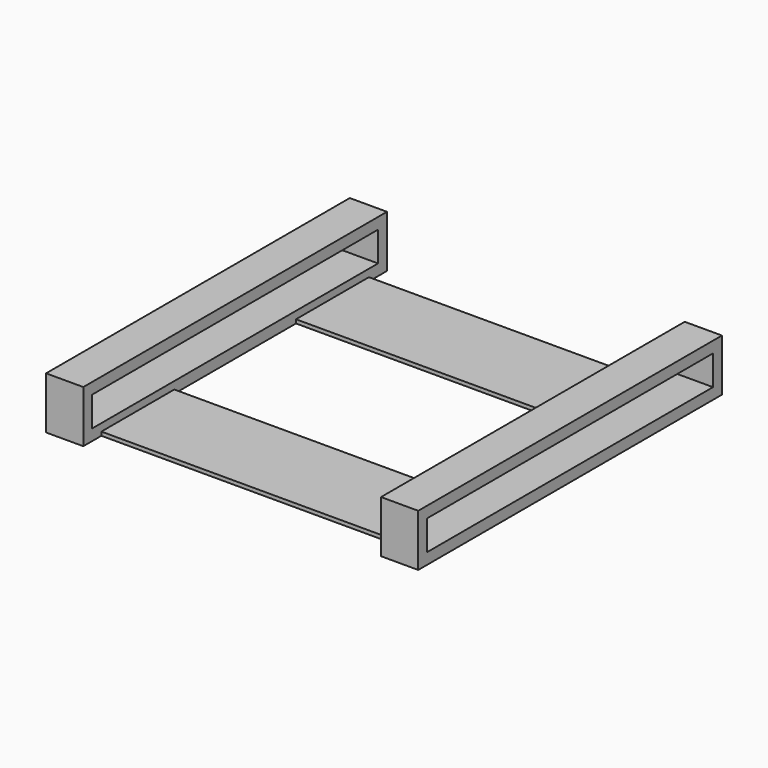
from build123d import *

# Parameters (mm, degrees)
F1_START      = 20
F0_W          = 48
F0_H          = 4
F0_W_2        = 12.2445234573
F0_H_2        = 0.5
F1_DEPTH      = 5
F2_START      = -20
F2_DEPTH      = 5
F3_DEPTH      = 25
F3_DEPTH_BACK = 25


with BuildPart() as f1:
    # F0 (on Right) → F1 (new body)
    with BuildSketch(Plane.YZ.offset(F1_START)):
        Polygon((-25.5, 7), (-25.5, 0), (-22.4627573043, 0), (-22.4627573043, 0.5), (-10.218233847, 0.5), (-10.218233847, 0), (10.218233847, 0), (10.218233847, 0.5), (22.4627573043, 0.5), (22.4627573043, 0), (25.5, 0), (25.5, 7), align=None)
        with Locations((0, 3.5)):
            Rectangle(F0_W, F0_H, mode=Mode.SUBTRACT)
        with Locations((-16.3404955757, 0.25)):
            Rectangle(F0_W_2, F0_H_2)
        with Locations((16.3404955757, 0.25)):
            Rectangle(F0_W_2, F0_H_2)
    extrude(amount=F1_DEPTH)



with BuildPart() as f2:
    # F0 (on Right) → F2 (new body)
    with BuildSketch(Plane.YZ.offset(F2_START)):
        Polygon((-25.5, 7), (-25.5, 0), (-22.4627573043, 0), (-22.4627573043, 0.5), (-10.218233847, 0.5), (-10.218233847, 0), (10.218233847, 0), (10.218233847, 0.5), (22.4627573043, 0.5), (22.4627573043, 0), (25.5, 0), (25.5, 7), align=None)
        with Locations((0, 3.5)):
            Rectangle(F0_W, F0_H, mode=Mode.SUBTRACT)
        with Locations((-16.3404955757, 0.25)):
            Rectangle(F0_W_2, F0_H_2)
        with Locations((16.3404955757, 0.25)):
            Rectangle(F0_W_2, F0_H_2)
    extrude(amount=-F2_DEPTH)


with BuildPart() as f1_1:
    add(f1.part)

    add(f2.part)  # F3 merges F2
    # F0 (on Right) → F3 (join, two sides)
    with BuildSketch(Plane.YZ) as f3_sk:
        with Locations((16.3404955757, 0.25)):
            Rectangle(F0_W_2, F0_H_2)
        with Locations((-16.3404955757, 0.25)):
            Rectangle(F0_W_2, F0_H_2)
    extrude(amount=F3_DEPTH)
    extrude(f3_sk.sketch, amount=-F3_DEPTH_BACK)


solid = f1_1.part
